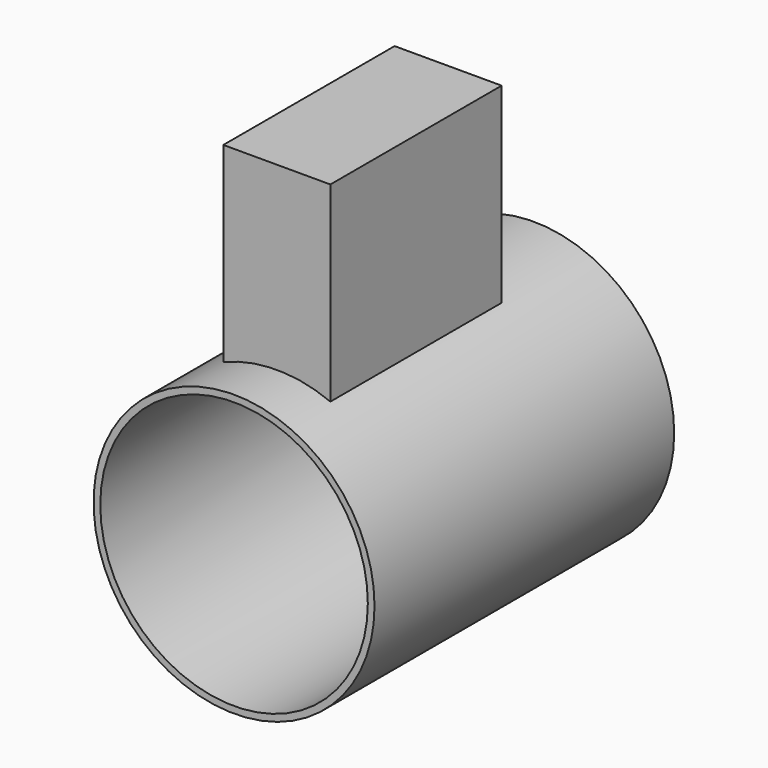
from build123d import *

# Parameters (mm, degrees)
F0_R     = 133.35
F1_DEPTH = 355.6
F2_W     = 101.6
F2_H     = 203.2
F3_DEPTH = 304.8
F4_R     = 127
F5_DEPTH = 355.601


with BuildPart() as f1:
    # F0 (on Front) → F1 (new body)
    with BuildSketch(Plane.XZ):
        Circle(F0_R)
    extrude(amount=F1_DEPTH)

    # F2 (on Top) → F3 (join)
    with BuildSketch(Plane.XY):
        with Locations((0, -203.2)):
            Rectangle(F2_W, F2_H)
    extrude(amount=F3_DEPTH)

    # F4 (on face) → F5 (cut, through all)
    with BuildSketch(Plane.XZ.offset(355.6)):
        Circle(F4_R)
    extrude(amount=-F5_DEPTH, mode=Mode.SUBTRACT)


solid = f1.part
